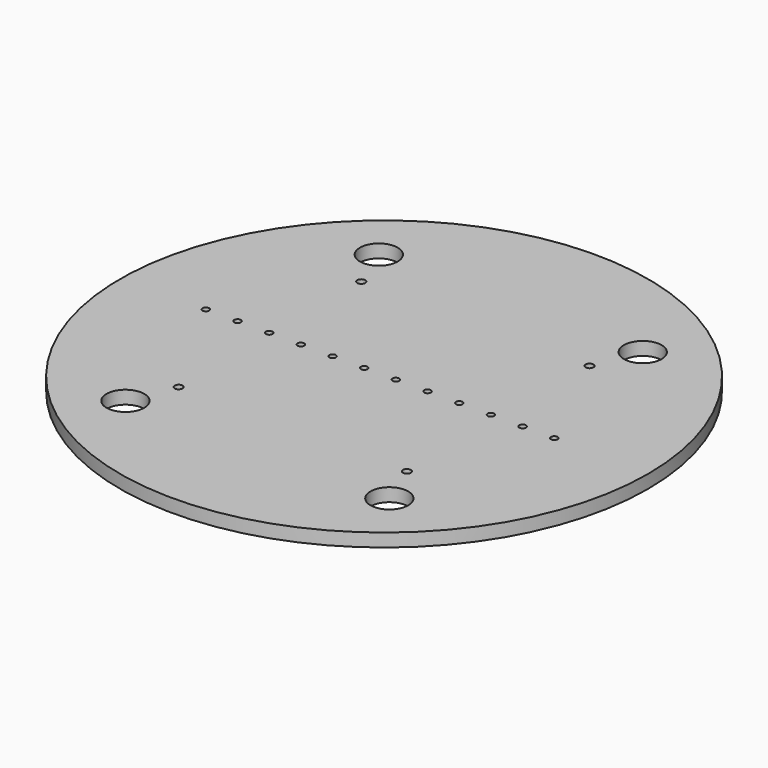
from build123d import *

# Parameters (mm, degrees)
F0_R     = 127
F0_R_2   = 9.0805
F0_R_3   = 1.905
F0_R_4   = 1.6002
F1_DEPTH = 6.35


with BuildPart() as f1:
    # F0 (on Top) → F1 (new body)
    with BuildSketch(Plane.XY):
        Circle(F0_R)
        with Locations((-63.5, -76.2)):
            Circle(F0_R_2, mode=Mode.SUBTRACT)
        with Locations((-54.9275, -54.9275)):
            Circle(F0_R_3, mode=Mode.SUBTRACT)
        with Locations((63.5, -76.2)):
            Circle(F0_R_2, mode=Mode.SUBTRACT)
        with Locations((54.9275, -54.9275)):
            Circle(F0_R_3, mode=Mode.SUBTRACT)
        with Locations((-86.36, 0.762)):
            Circle(F0_R_4, mode=Mode.SUBTRACT)
        with Locations((-71.12, 0.762)):
            Circle(F0_R_4, mode=Mode.SUBTRACT)
        with Locations((-55.88, 0.762)):
            Circle(F0_R_4, mode=Mode.SUBTRACT)
        with Locations((-40.64, 0.762)):
            Circle(F0_R_4, mode=Mode.SUBTRACT)
        with Locations((-25.4, 0.762)):
            Circle(F0_R_4, mode=Mode.SUBTRACT)
        with Locations((-10.16, 0.762)):
            Circle(F0_R_4, mode=Mode.SUBTRACT)
        with Locations((-54.9275, 54.9275)):
            Circle(F0_R_3, mode=Mode.SUBTRACT)
        with Locations((-63.5, 76.2)):
            Circle(F0_R_2, mode=Mode.SUBTRACT)
        with Locations((5.08, 0.762)):
            Circle(F0_R_4, mode=Mode.SUBTRACT)
        with Locations((20.32, 0.762)):
            Circle(F0_R_4, mode=Mode.SUBTRACT)
        with Locations((35.56, 0.762)):
            Circle(F0_R_4, mode=Mode.SUBTRACT)
        with Locations((50.8, 0.762)):
            Circle(F0_R_4, mode=Mode.SUBTRACT)
        with Locations((54.9275, 54.9275)):
            Circle(F0_R_3, mode=Mode.SUBTRACT)
        with Locations((66.04, 0.762)):
            Circle(F0_R_4, mode=Mode.SUBTRACT)
        with Locations((81.28, 0.762)):
            Circle(F0_R_4, mode=Mode.SUBTRACT)
        with Locations((63.5, 76.2)):
            Circle(F0_R_2, mode=Mode.SUBTRACT)
    extrude(amount=F1_DEPTH)


solid = f1.part
